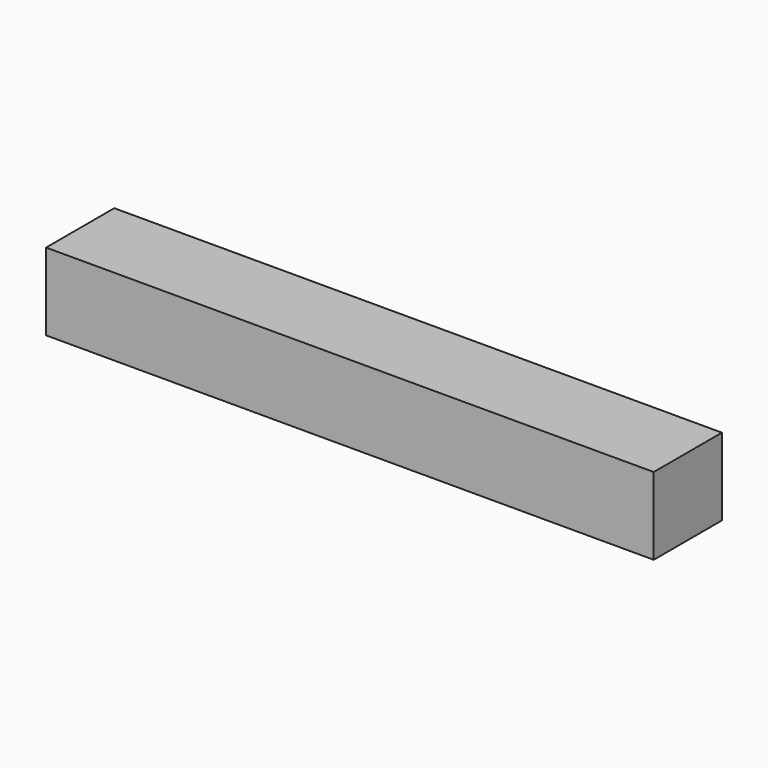
from build123d import *

# Parameters (mm, degrees)
F1_W     = 196.505502
F1_H     = 27.569428
F2_DEPTH = 25


with BuildPart() as f2:
    # F1 (on face) → F2 (new body)
    with BuildSketch(Plane.XY):
        Rectangle(F1_W, F1_H)
    extrude(amount=F2_DEPTH)


solid = f2.part
